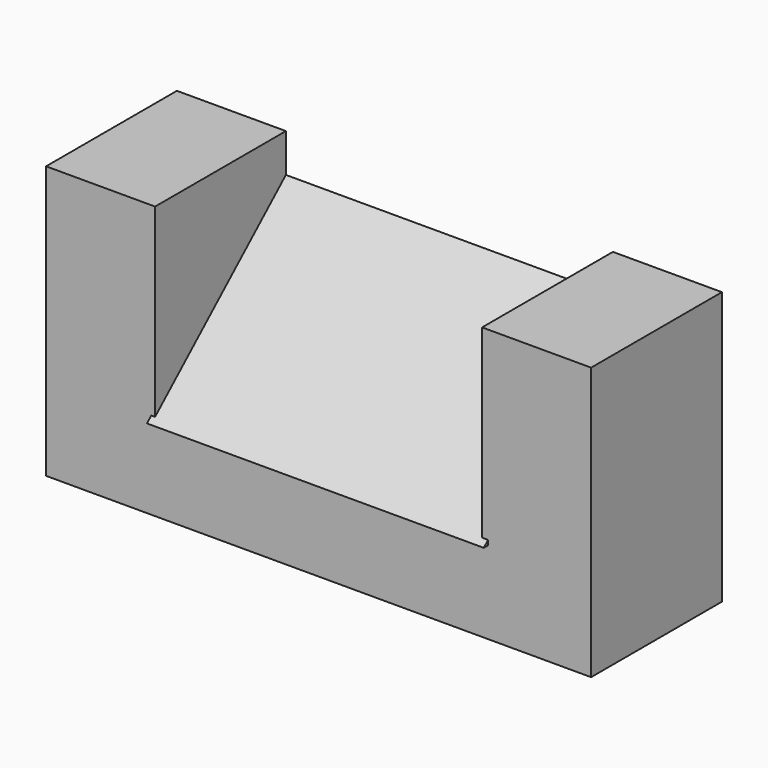
from build123d import *

# Parameters (mm, degrees)
F1_DEPTH      = 38.1
F3_DEPTH      = 35.56
F3_DEPTH_BACK = 42.926


with BuildPart() as f1:
    # F0 (on Front) → F1 (new body)
    with BuildSketch(Plane.XZ):
        Polygon((-67.434916, 27.502788), (-67.434916, -35.997212), (59.565084, -35.997212), (59.565084, 27.502788), (34.165084, 27.502788), (34.165084, -16.947212), (-42.034916, -16.947212), (-42.034916, 27.502788), align=None)
    extrude(amount=F1_DEPTH)

    # F2 (on Right) → F3 (join, two sides)
    with BuildSketch(Plane.YZ) as f3_sk:
        Polygon((0, 18.508689), (-39.34918, -16.759835), (0, -16.759835), align=None)
    extrude(amount=F3_DEPTH)
    extrude(f3_sk.sketch, amount=-F3_DEPTH_BACK)


solid = f1.part
